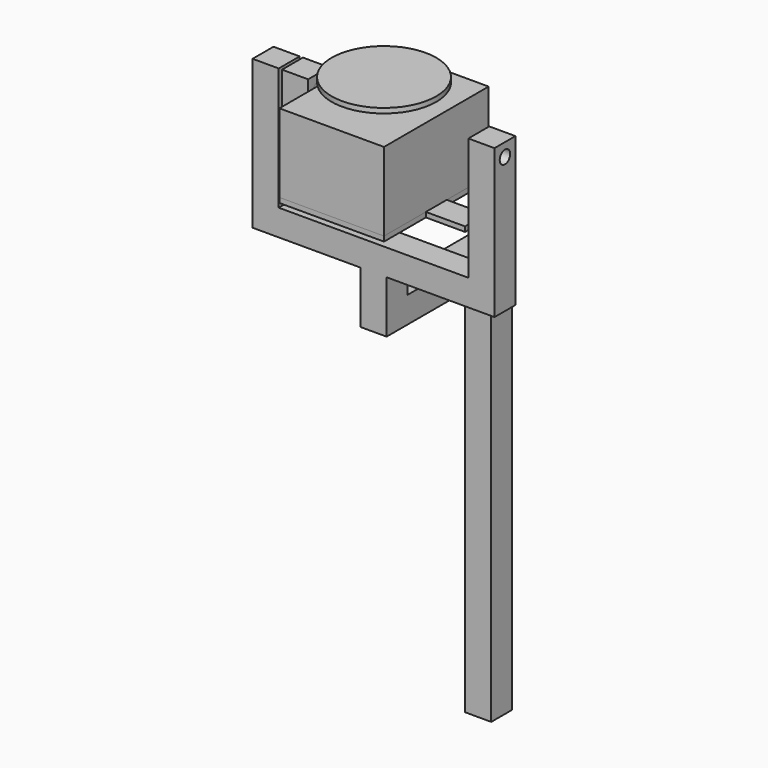
from build123d import *

# Parameters (mm, degrees)
F0_W      = 203.2
F0_H      = 254
F1_DEPTH  = 152.4
F2_R      = 19.05
F3_DEPTH  = 50.8
F7_DEPTH  = 9.525
F8_W      = 50.8
F8_H      = 50.8
F9_DEPTH  = 152.4
F10_R     = 12.7
F11_DEPTH = 50.8
F12_R     = 12.7
F13_DEPTH = 107.95
F15_DEPTH = 50.8
F16_R     = 12.7
F17_DEPTH = 469.9
F19_DEPTH = 25.4


with BuildPart() as f1:
    # F0 (on Top) → F1 (new body)
    with BuildSketch(Plane.XY):
        Rectangle(F0_W, F0_H)
    extrude(amount=F1_DEPTH)

    # F2 (on face) → F3 (cut)
    with BuildSketch(Plane.XY.offset(152.4)):
        Circle(F2_R)
    extrude(amount=-F3_DEPTH, mode=Mode.SUBTRACT)


with BuildPart() as f5:
    # F4 (on Front) → F5 (revolve)
    with BuildSketch(Plane.XZ):
        Polygon((101.6, 187.325), (0, 187.325), (0, 101.6), (19.05, 101.6), (19.05, 177.8), (101.6, 177.8), align=None)
    revolve(axis=Axis((0, 0, 144.4625), (0, 0, -1)))


with BuildPart() as f7:
    # F6 (on face) → F7 (new body)
    with BuildSketch(Plane(origin=(0, 0, 0), x_dir=(1, 0, 0), z_dir=(0, 0, -1))):
        Polygon((101.6, 127), (-101.6, 127), (-101.6, 25.4), (-177.8, 25.4), (-177.8, -25.4), (-101.6, -25.4), (-101.6, -127), (101.6, -127), (101.6, -25.4), (177.8, -25.4), (177.8, 25.4), (101.6, 25.4), align=None)
    extrude(amount=F7_DEPTH)


with BuildPart() as f9:
    # F8 (on face) → F9 (new body, through all)
    with BuildSketch(Plane.XY):
        with Locations((-152.4, 0)):
            Rectangle(F8_W, F8_H)
    extrude(amount=F9_DEPTH)

    # F10 (on face) → F11 (cut, through all)
    with BuildSketch(Plane(origin=(-177.8, 0, 0), x_dir=(0, -1, 0), z_dir=(-1, 0, 0))):
        with Locations((0, 127)):
            Circle(F10_R)
    extrude(amount=-F11_DEPTH, mode=Mode.SUBTRACT)


with BuildPart() as f13:
    # F12 (on face) → F13 (new body)
    with BuildSketch(Plane.YZ.offset(-127)):
        with Locations((0, 127)):
            Circle(F12_R)
    extrude(amount=-F13_DEPTH)


with BuildPart() as f15:
    # F14 (on face) → F15 (new body, through all)
    with BuildSketch(Plane.XZ.offset(25.4)):
        Polygon((-184.15, -85.725), (-184.15, 152.4), (-234.95, 152.4), (-234.95, -136.525), (234.95, -136.525), (234.95, 152.4), (184.15, 152.4), (184.15, -85.725), align=None)
    extrude(amount=-F15_DEPTH)

    # F16 (on face) → F17 (cut, through all)
    with BuildSketch(Plane(origin=(-234.95, 0, 0), x_dir=(0, -1, 0), z_dir=(-1, 0, 0))):
        with Locations((0, 127)):
            Circle(F16_R)
    extrude(amount=-F17_DEPTH, mode=Mode.SUBTRACT)

    # F18 (on Right) → F19 (join, symmetric)
    with BuildSketch(Plane.YZ):
        Polygon((25.4, -187.325), (25.4, -136.525), (-25.4, -136.525), (-25.4, -238.125), (228.6, -238.125), (228.6, -1000.125), (279.4, -1000.125), (279.4, -187.325), align=None)
    extrude(amount=F19_DEPTH, both=True)


solid = Compound([f1.part, f5.part, f7.part, f9.part, f13.part, f15.part])
